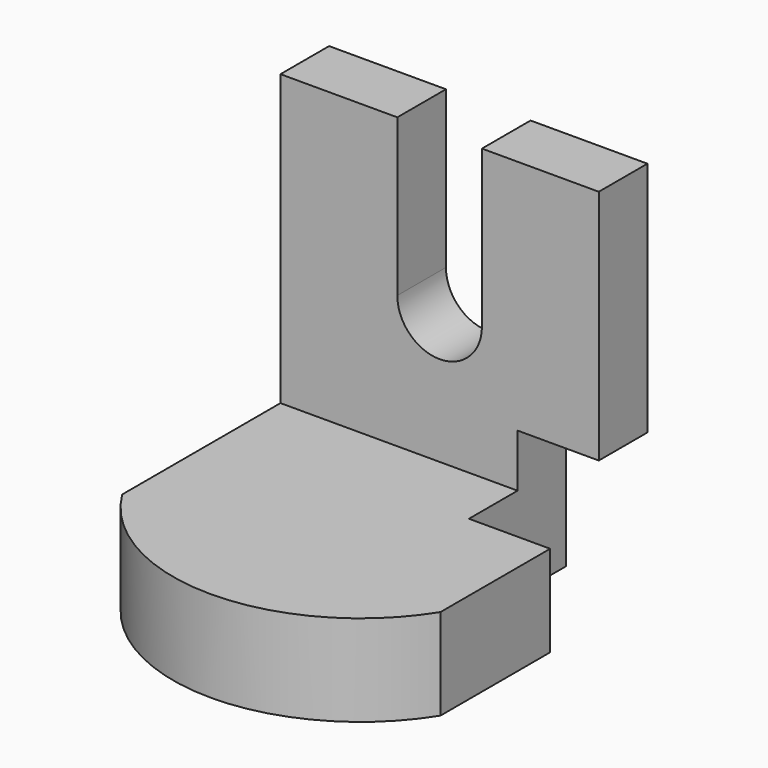
from build123d import *

# Parameters (mm, degrees)
F1_DEPTH = 19.05
F3_DEPTH = 12.7
F4_W     = 16.968144
F4_H     = 30.109933
F5_DEPTH = 25.4


with BuildPart() as f1:
    # F0 (on Top) → F1 (new body)
    with BuildSketch(Plane.XY):
        with BuildLine():
            Line((33.250909, -20.666365), (33.250909, 20.666365))
            Line((33.250909, 20.666365), (-33.250909, 20.666365))
            Line((-33.250909, 20.666365), (-33.250909, -20.666365))
            ThreePointArc((-33.250909, -20.666365), (0, -39.149988), (33.250909, -20.666365))
        make_face()
    extrude(amount=F1_DEPTH)

    # F2 (on face) → F3 (join)
    with BuildSketch(Plane(origin=(0, 20.666365, 0), x_dir=(-1, 0, 0), z_dir=(0, 1, 0))):
        with BuildLine():
            Line((-33.250909, 19.05), (-33.250909, 0))
            Line((-33.250909, 0), (33.250909, 0))
            Line((33.250909, 0), (33.250909, 19.05))
            Line((33.250909, 19.05), (33.250909, 79.54818))
            Line((33.250909, 79.54818), (8.83812, 79.54818))
            Line((8.83812, 79.54818), (8.83812, 46.779379))
            ThreePointArc((8.83812, 46.779379), (0, 37.941259), (-8.83812, 46.779379))
            Line((-8.83812, 46.779379), (-8.83812, 79.54818))
            Line((-8.83812, 79.54818), (-15.810801, 79.54818))
            Line((-15.810801, 79.54818), (-33.250909, 79.54818))
            Line((-33.250909, 79.54818), (-33.250909, 19.05))
        make_face()
    extrude(amount=F3_DEPTH)

    # F4 (on face) → F5 (cut)
    with BuildSketch(Plane(origin=(0, 33.366365, 0), x_dir=(-1, 0, 0), z_dir=(0, 1, 0))):
        with Locations((-24.766837, 15.054966)):
            Rectangle(F4_W, F4_H)
    extrude(amount=-F5_DEPTH, mode=Mode.SUBTRACT)


solid = f1.part
